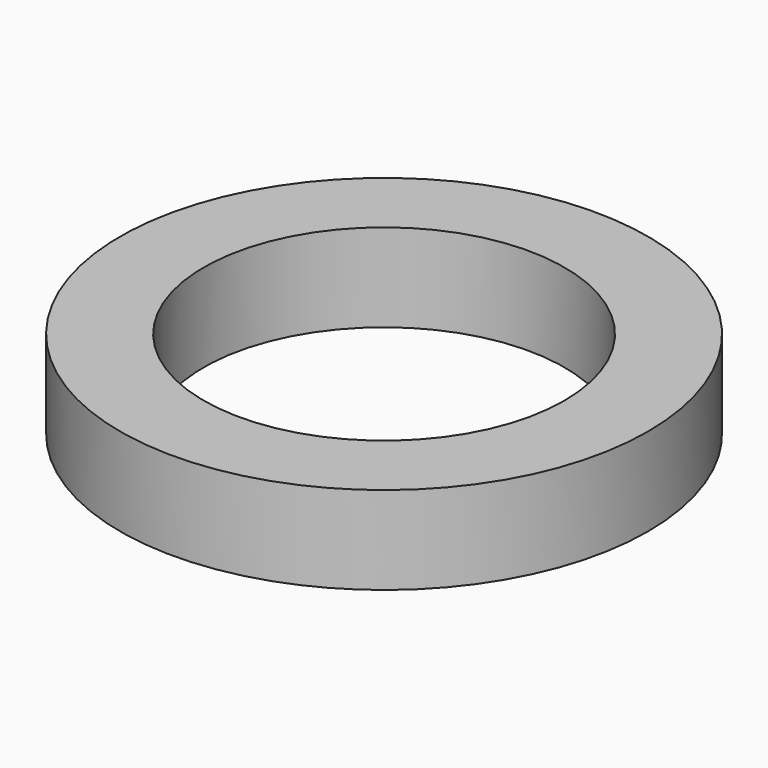
from build123d import *

# Parameters (mm, degrees)
CYLINDER001_R     = 4.1
CYLINDER001_DEPTH = 2
CYLINDER_R        = 6
CYLINDER_DEPTH    = 2


with BuildPart() as inner:
    # Cylinder001 → Cylinder001 (new body)
    with BuildSketch(Plane.XY):
        Circle(CYLINDER001_R)
    extrude(amount=CYLINDER001_DEPTH)


with BuildPart() as cut:
    # Cylinder → Cylinder (new body)
    with BuildSketch(Plane.XY):
        Circle(CYLINDER_R)
    extrude(amount=CYLINDER_DEPTH)

    # Cut: cut Inner
    add(inner.part, mode=Mode.SUBTRACT)


solid = cut.part
